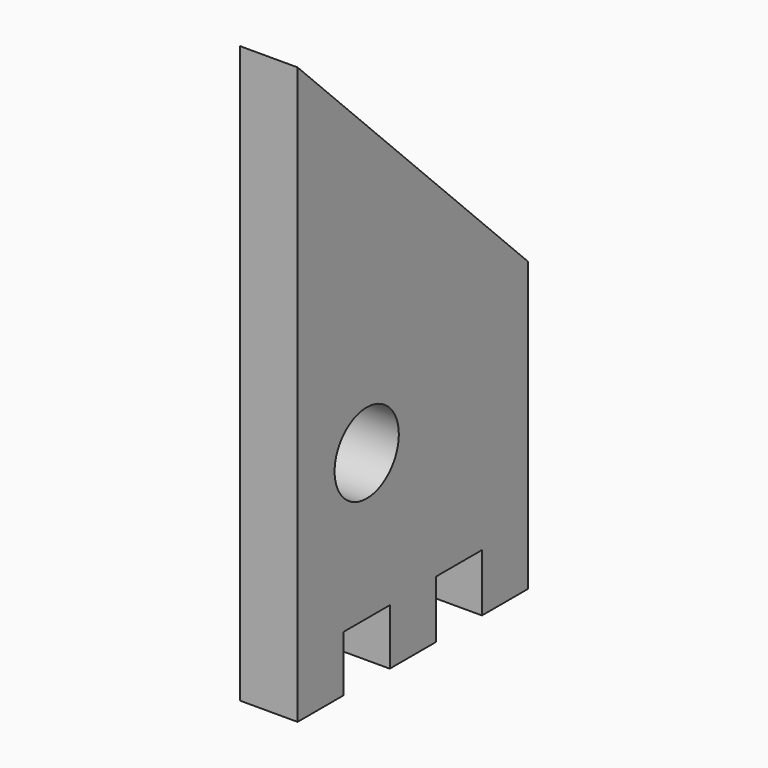
from build123d import *

# Parameters (mm, degrees)
F0_R     = 13.9349821394
F1_DEPTH = 20
F3_D     = 3.3
F3_DEPTH = 5
F3_TIP   = 0.9914200214


with BuildPart() as f1:
    # F0 (on Right) → F1 (new body)
    with BuildSketch(Plane.YZ):
        Polygon((-65.3123139198, 200), (-65.3123139198, 100), (34.6876860802, 100), align=None)
        Polygon((-65.3123139198, 100), (-65.3123139198, 0), (-45.3123139198, 0), (-45.3123139198, 19.40359734), (-25.3123139198, 19.40359734), (-25.3123139198, 0), (-5.3123139198, 0), (-5.3123139198, 20), (14.6876860802, 20), (14.6876860802, 0), (34.6876860802, 0), (34.6876860802, 100), align=None)
        with Locations((-35.3123139198, 70)):
            Circle(F0_R, mode=Mode.SUBTRACT)
    extrude(amount=F1_DEPTH)

    # F3
    with Locations(Plane(origin=(0, 67.3438430401, 67.3438430401), x_dir=(-1, 0, 0), z_dir=(0, 0.7071067812, 0.7071067812))):
        with Locations((-10, 56.1827800676), (-10, 156.1827800676)):
            Hole(F3_D / 2, depth=F3_DEPTH)
            with Locations((0, 0, -(F3_DEPTH + F3_TIP / 2))):  # 118° drill point
                Cone(0, F3_D / 2, F3_TIP, mode=Mode.SUBTRACT)


solid = f1.part
